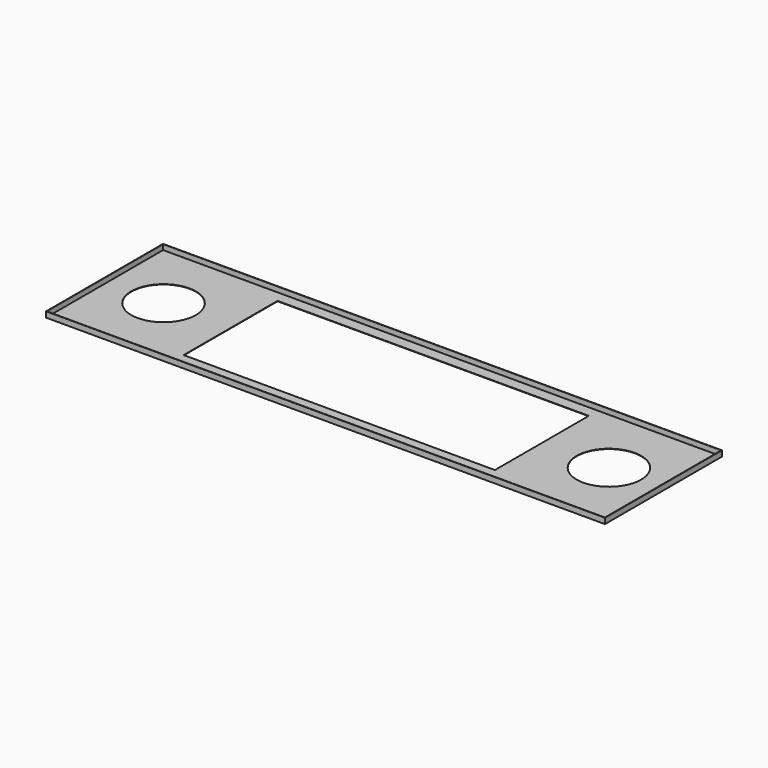
from build123d import *

# Parameters (mm, degrees)
F0_W          = 1300
F0_H          = 340
F1_DEPTH      = 13
F2_T          = -0.9
F3_W          = 724
F3_H          = 273
F4_DEPTH      = 0.901
F4_DEPTH_BACK = 12.101
F5_R          = 75
F6_DEPTH      = 12.101
F6_DEPTH_BACK = 0.901


with BuildPart() as f1:
    # F0 (on Top) → F1 (new body)
    with BuildSketch(Plane.XY):
        Rectangle(F0_W, F0_H)
    extrude(amount=F1_DEPTH)

    # F2
    f2_openings = [f1.faces().sort_by_distance(p)[0] for p in [
        (0, 0, 13),
    ]]
    offset(amount=F2_T, openings=f2_openings)

    # F3 (on face) → F4 (cut, two sides)
    with BuildSketch(Plane.XY.offset(0.9)) as f4_sk:
        with Locations((0, 6.5)):
            Rectangle(F3_W, F3_H)
    extrude(amount=-F4_DEPTH, mode=Mode.SUBTRACT)
    extrude(f4_sk.sketch, amount=-F4_DEPTH_BACK, mode=Mode.SUBTRACT)

    # F5 (on face) → F6 (cut, two sides)
    with BuildSketch(Plane.XY.offset(0.9)) as f6_sk:
        with Locations((-518, 6.5)):
            Circle(F5_R)
        with Locations((518, 6.5)):
            Circle(F5_R)
    extrude(amount=F6_DEPTH, mode=Mode.SUBTRACT)
    extrude(f6_sk.sketch, amount=-F6_DEPTH_BACK, mode=Mode.SUBTRACT)


solid = f1.part
